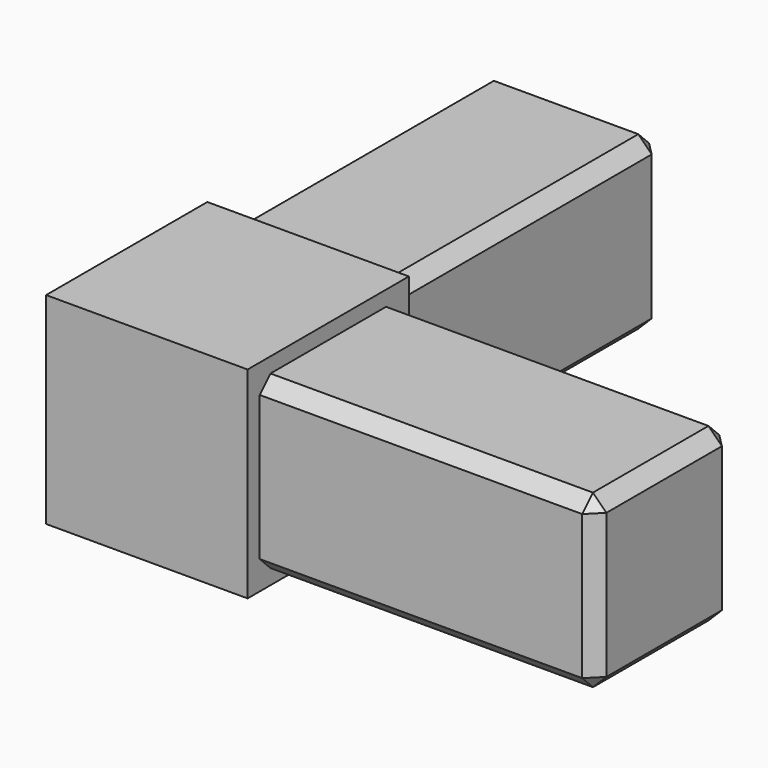
from build123d import *

# Parameters (mm, degrees)
SKETCH007_W     = 30
SKETCH007_H     = 30
PAD007_DEPTH    = 30
SKETCH008_W     = 25.5
SKETCH008_H     = 25.5
PAD008_DEPTH    = 50
CHAMFER002_SIZE = 2
SKETCH009_W     = 25.5
SKETCH009_H     = 25.5
PAD009_DEPTH    = 50
CHAMFER003_SIZE = 2


with BuildPart() as part:
    # Sketch007 → Pad007 (new body)
    with BuildSketch(Plane.XZ):
        with Locations((-15, -15)):
            Rectangle(SKETCH007_W, SKETCH007_H)
    extrude(amount=PAD007_DEPTH)

    # Sketch008 (on Face4 of Pad007) → Pad008 (join)
    with BuildSketch(Plane(origin=(0, 0, 0), x_dir=(0, 0, 1), z_dir=(1, 0, 0))):
        with Locations((-15, 15)):
            Rectangle(SKETCH008_W, SKETCH008_H)
    extrude(amount=PAD008_DEPTH)

    # Chamfer002
    chamfer002_edges = [part.edges().sort_by_distance(p)[0] for p in [
        (25, -27.75, -2.25),
        (25, -27.75, -27.75),
        (50, -27.75, -15),
        (50, -15, -2.25),
        (50, -15, -27.75),
        (50, -2.25, -15),
        (25, -2.25, -2.25),
        (25, -2.25, -27.75),
    ]]
    chamfer(chamfer002_edges, length=CHAMFER002_SIZE)

    # Sketch009 (on Face11 of Chamfer002) → Pad009 (join)
    with BuildSketch(Plane(origin=(0, 0, 0), x_dir=(1, 0, 0), z_dir=(0, 1, 0))):
        with Locations((-15, 15)):
            Rectangle(SKETCH009_W, SKETCH009_H)
    extrude(amount=PAD009_DEPTH)

    # Chamfer003
    chamfer003_edges = [part.edges().sort_by_distance(p)[0] for p in [
        (-2.25, 50, -15),
        (-15, 50, -27.75),
        (-27.75, 50, -15),
        (-15, 50, -2.25),
        (-27.75, 25, -2.25),
        (-27.75, 25, -27.75),
        (-2.25, 25, -2.25),
        (-2.25, 25, -27.75),
    ]]
    chamfer(chamfer003_edges, length=CHAMFER003_SIZE)


solid = part.part
